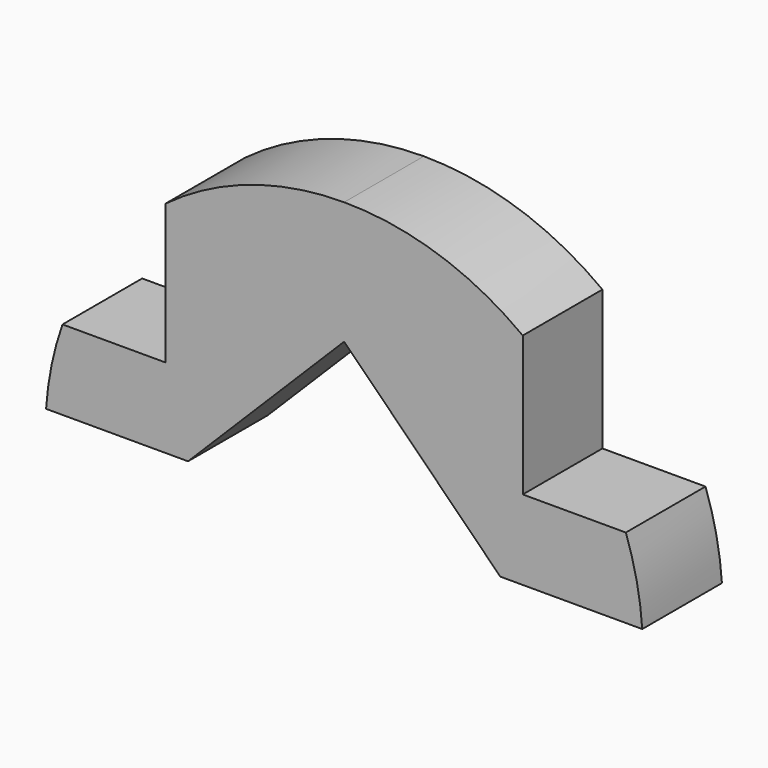
from build123d import *

# Parameters (mm, degrees)
F1_DEPTH = 10


with BuildPart() as f1:
    # F0 (on Front) → F1 (new body)
    with BuildSketch(Plane.XZ):
        with BuildLine():
            Line((-15.67767, 2), (0, 17.67767))
            Line((0, 17.67767), (15.67767, 2))
            Line((15.67767, 2), (29.933259, 2))
            ThreePointArc((29.933259, 2), (29.382311, 6.056384), (28.284271, 10))
            Line((28.284271, 10), (17.933259, 10))
            Line((17.933259, 10), (17.933259, 24.049911))
            ThreePointArc((17.933259, 24.049911), (9.447292, 28.473649), (0, 30))
            ThreePointArc((0, 30), (-9.447292, 28.473649), (-17.933259, 24.049911))
            Line((-17.933259, 24.049911), (-17.933259, 10))
            Line((-17.933259, 10), (-28.284271, 10))
            ThreePointArc((-28.284271, 10), (-29.382311, 6.056384), (-29.933259, 2))
            Line((-29.933259, 2), (-15.67767, 2))
        make_face()
    extrude(amount=F1_DEPTH)


solid = f1.part
